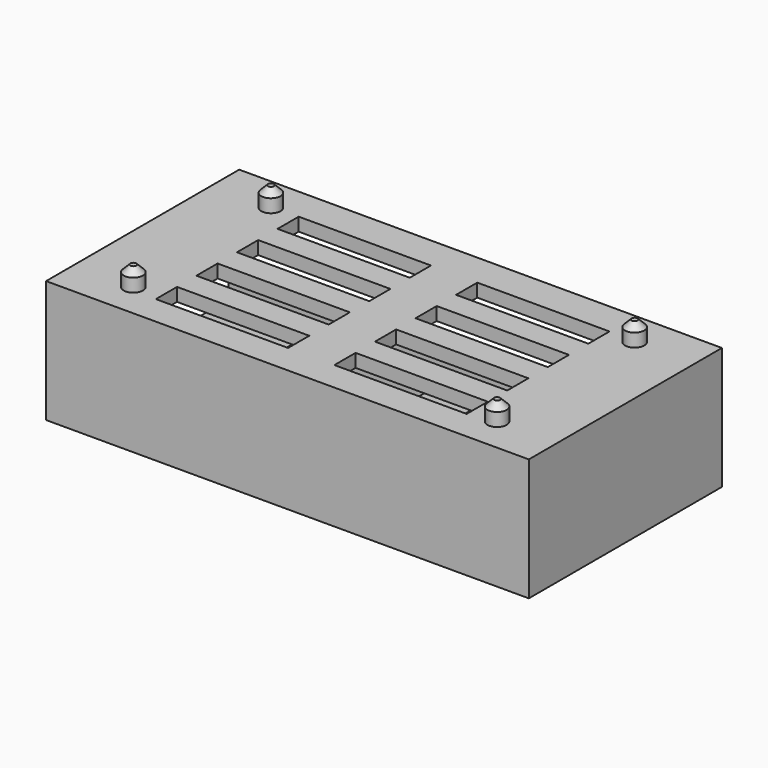
from build123d import *

# Parameters (mm, degrees)
SKETCH_W            = 73
SKETCH_H            = 36.5
PAD_DEPTH           = 18.5
SKETCH001_W         = 72
SKETCH001_H         = 14.5
POCKET_DEPTH        = 35.5
SKETCH002_W         = 70
SKETCH002_H         = 2
PAD001_DEPTH        = 3
FILLET_R            = 1
SKETCH003_W         = 2
SKETCH003_H         = 10
PAD002_DEPTH        = 3
FILLET001_R         = 1
SKETCH005_R         = 1.45
PAD003_DEPTH        = 3
CHAMFER_SIZE        = 1
SKETCH006_W         = 20
SKETCH006_H         = 4
POCKET001_DEPTH     = 18.501
LINEARPATTERN_COUNT = 4
LINEARPATTERN_PITCH = 7.666667


with BuildPart() as part:
    # Sketch → Pad (new body)
    with BuildSketch(Plane.XY):
        Rectangle(SKETCH_W, SKETCH_H)
    extrude(amount=PAD_DEPTH)

    # Sketch001 (on Face3 of Pad) → Pocket (cut)
    with BuildSketch(Plane(origin=(0, 18.25, 0), x_dir=(-1, 0, 0), z_dir=(0, 1, 0))):
        with Locations((0.5, 9.25)):
            Rectangle(SKETCH001_W, SKETCH001_H)
    extrude(amount=-POCKET_DEPTH, mode=Mode.SUBTRACT)

    # Sketch002 (on Face9 of Pocket) → Pad001 (join)
    with BuildSketch(Plane.XY.offset(2)):
        with Locations((-1.5, 17.25)):
            Rectangle(SKETCH002_W, SKETCH002_H)
    extrude(amount=PAD001_DEPTH)

    # Fillet
    fillet_edges = [part.edges().sort_by_distance(p)[0] for p in [
        (-1.5, 18.25, 5),
    ]]
    fillet(fillet_edges, radius=FILLET_R)

    # Sketch003 (on Face10 of Fillet) → Pad002 (join)
    with BuildSketch(Plane(origin=(0, 0, 16.5), x_dir=(1, 0, 0), z_dir=(0, 0, -1))):
        with Locations((-35.5, -13.25)):
            Rectangle(SKETCH003_W, SKETCH003_H)
    extrude(amount=PAD002_DEPTH)

    # Fillet001
    fillet001_edges = [part.edges().sort_by_distance(p)[0] for p in [
        (-36.5, 13.25, 13.5),
    ]]
    fillet(fillet001_edges, radius=FILLET001_R)

    # Sketch005 (on Face8 of Fillet001) → Pad003 (join)
    with BuildSketch(Plane.XY.offset(18.5)):
        with Locations((-27.5, 13)):
            Circle(SKETCH005_R)
        with Locations((-27.5, -13)):
            Circle(SKETCH005_R)
        with Locations((27.5, 13)):
            Circle(SKETCH005_R)
        with Locations((27.5, -13)):
            Circle(SKETCH005_R)
    extrude(amount=PAD003_DEPTH)

    # Chamfer
    chamfer_edges = [part.edges().sort_by_distance(p)[0] for p in [
        (26.05, 13, 21.5),
        (-28.95, 13, 21.5),
        (-28.95, -13, 21.5),
        (26.05, -13, 21.5),
    ]]
    chamfer(chamfer_edges, length=CHAMFER_SIZE)

    # Sketch006 (on Face3 of Chamfer) → Pocket001 (cut, through all)
    with BuildSketch(Plane.XY.offset(18.5)):
        with Locations((-13.5, -11.75)):
            Rectangle(SKETCH006_W, SKETCH006_H)
        with Locations((13.5, -11.75)):
            Rectangle(SKETCH006_W, SKETCH006_H)
    pocket001 = extrude(amount=-POCKET001_DEPTH, mode=Mode.SUBTRACT)

    # LinearPattern: Pocket001 ×4
    with Locations(*[(0, i * LINEARPATTERN_PITCH, 0) for i in range(1, LINEARPATTERN_COUNT)]):
        add(pocket001, mode=Mode.SUBTRACT)


solid = part.part
